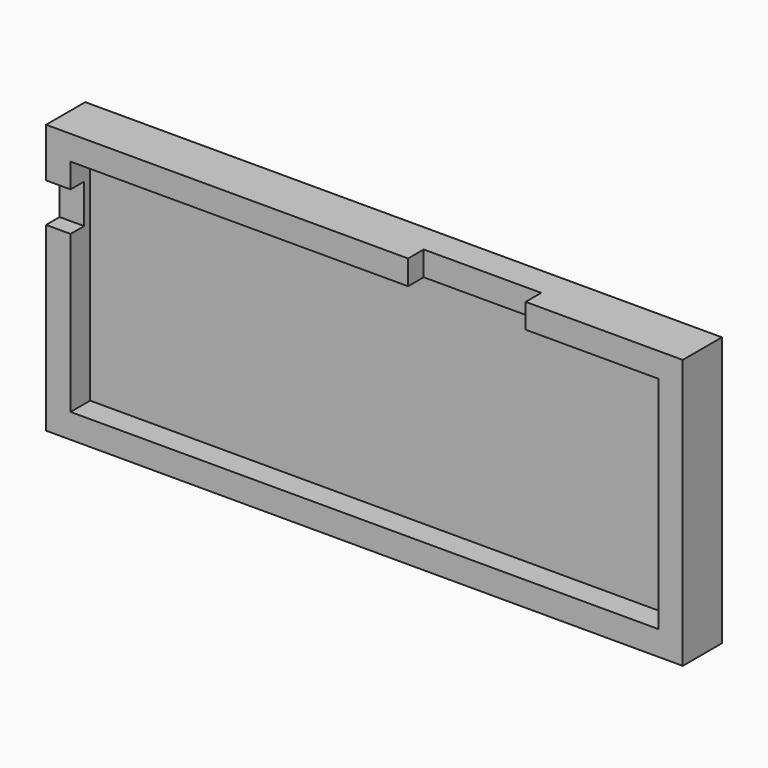
from build123d import *

# Parameters (mm, degrees)
F0_W     = 130
F0_H     = 55
F1_DEPTH = 10
F2_T     = -5
F4_DEPTH = 11.684
F5_W     = 3.5
F5_H     = 8
F6_DEPTH = 6.7818


with BuildPart() as f1:
    # F0 (on Front) → F1 (new body)
    with BuildSketch(Plane.XZ):
        with Locations((65, -27.5)):
            Rectangle(F0_W, F0_H)
    extrude(amount=F1_DEPTH)

    # F2
    f2_openings = [f1.faces().sort_by_distance(p)[0] for p in [
        (65, -10, -27.5),
    ]]
    offset(amount=F2_T, openings=f2_openings)

    # F3 (on Top) → F4 (cut)
    with BuildSketch(Plane.XY):
        Polygon((73.914569, -6.014053), (73.914569, -10.014053), (97.914569, -10.014053), (97.914569, -9.998512), (97.914569, -6.014053), align=None)
    extrude(amount=-F4_DEPTH, mode=Mode.SUBTRACT)

    # F5 (on Right) → F6 (cut)
    with BuildSketch(Plane.YZ):
        with Locations((-8.289312, -14.001081)):
            Rectangle(F5_W, F5_H)
    extrude(amount=F6_DEPTH, mode=Mode.SUBTRACT)


solid = f1.part
